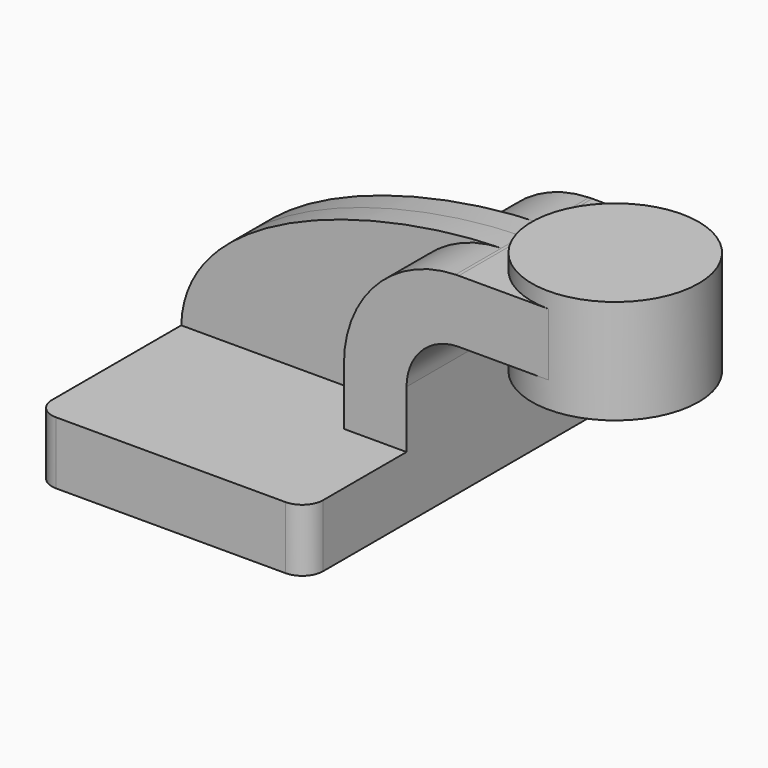
from build123d import *

# Parameters (mm, degrees)
F1_DEPTH = 63.5
F2_DEPTH = 25.4
F3_DEPTH = 7.9375
F5_R     = 6.35


with BuildPart() as f1:
    # F0 (on Front) → F1 (new body, symmetric)
    with BuildSketch(Plane.XZ):
        Polygon((-41.275, -9.525), (41.275, -9.525), (41.275, 9.525), (22.225, 9.525), (-41.275, 9.525), align=None)
    extrude(amount=F1_DEPTH, both=True)

    # F0 (on Front) → F2 (join, symmetric)
    with BuildSketch(Plane.XZ):
        with BuildLine():
            Line((22.225, 9.525), (41.275, 9.525))
            Line((41.275, 9.525), (41.275, 27.0002))
            ThreePointArc((41.275, 27.0002), (45.9246798487, 38.2255201513), (57.15, 42.8752))
            Line((57.15, 42.8752), (59.0854373096, 42.8752))
            Line((59.0854373096, 42.8752), (59.0854373096, 61.9252))
            Line((59.0854373096, 61.9252), (57.15, 61.9252))
            add(Edge.make_bspline(
                [(56.190827001, 61.9120262507), (56.5119550405, 61.9175775521), (56.831694443, 61.9219686584), (57.15, 61.9252)],
                knots=[110.5788224072, 110.5788224072, 110.5788224072, 110.5788224072, 111.5045361635, 111.5045361635, 111.5045361635, 111.5045361635], degree=3))
            ThreePointArc((56.190827001, 61.9120262507), (32.1174737393, 51.3544245618), (22.225, 27.0002))
            Line((22.225, 27.0002), (22.225, 9.525))
        make_face()
        Polygon((59.0854373096, 61.9252), (59.0854373096, 42.8752), (84.4854373096, 42.8752), (84.4854373096, 50.8), (84.4854373096, 61.9252), align=None)
    extrude(amount=F2_DEPTH, both=True)

    # F0 (on Front) → F3 (join, symmetric)
    with BuildSketch(Plane.XZ):
        with BuildLine():
            add(Edge.make_bspline(
                [(-41.275, 9.525), (-40.342589198, 44.0310850968), (17.8312798934, 61.2489094196), (56.190827001, 61.9120262507)],
                knots=[0, 0, 0, 0, 110.5788224072, 110.5788224072, 110.5788224072, 110.5788224072], degree=3))
            Line((-41.275, 9.525), (22.225, 9.525))
            Line((22.225, 9.525), (22.225, 27.0002))
            ThreePointArc((22.225, 27.0002), (32.1174737393, 51.3544245618), (56.190827001, 61.9120262507))
        make_face()
    extrude(amount=F3_DEPTH, both=True)

    # F0 (on Front) → F4 (revolve)
    with BuildSketch(Plane.XZ):
        Polygon((84.4854373096, 50.8), (84.4854373096, 42.8752), (84.4854373096, 34.925), (109.8854373096, 34.925), (109.8854373096, 66.675), (84.4854373096, 66.675), (84.4854373096, 61.9252), align=None)
    revolve(axis=Axis((84.4854373096, 0, 42.8625), (0, 0, -1)))

    # F5
    f5_edges = [f1.edges().sort_by_distance(p)[0] for p in [
        (41.275, -63.5, 0),
        (-41.275, -63.5, 0),
        (41.275, 63.5, 0),
        (-41.275, 63.5, 0),
    ]]
    fillet(f5_edges, radius=F5_R)


solid = f1.part
